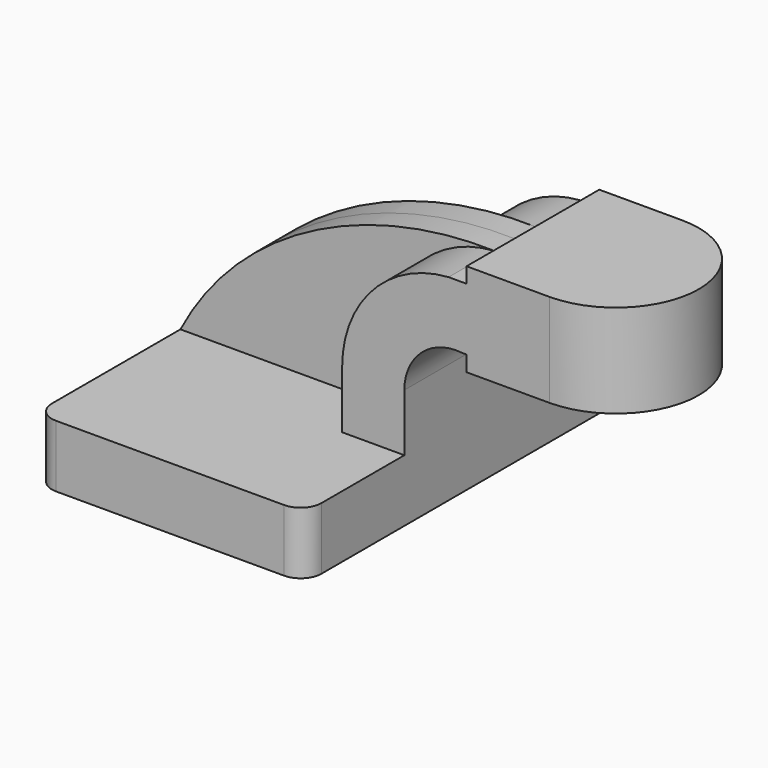
from build123d import *

# Parameters (mm, degrees)
F1_DEPTH = 63.5
F0_W     = 25.4
F0_H     = 4.7752
F0_H_2   = 4.7256098347
F0_H_3   = 19.0741901653
F2_DEPTH = 25.4
F3_DEPTH = 7.9375
F5_R     = 6.35


with BuildPart() as f1:
    # F0 (on Front) → F1 (new body, symmetric)
    with BuildSketch(Plane.XZ):
        Polygon((-41.275, 9.525), (-41.275, -9.525), (41.275, -9.525), (41.275, 9.525), (22.225, 9.525), align=None)
    extrude(amount=F1_DEPTH, both=True)

    # F0 (on Front) → F2 (join, symmetric)
    with BuildSketch(Plane.XZ):
        Polygon((-41.275, 9.525), (-41.275, -9.525), (41.275, -9.525), (41.275, 9.525), (22.225, 9.525), align=None)
        with Locations((73.025, 40.4876)):
            Rectangle(F0_W, F0_H)
        with Locations((73.025, 64.3121950827)):
            Rectangle(F0_W, F0_H_2)
        with BuildLine():
            Line((22.225, 9.525), (41.275, 9.525))
            Line((41.275, 9.525), (41.275, 27.1020599752))
            ThreePointArc((41.275, 27.1020599752), (46.5785126871, 38.9451710949), (58.9454605977, 42.8752))
            Line((58.9454605977, 42.8752), (60.325, 42.8752))
            Line((60.325, 42.8752), (60.325, 61.9493901653))
            Line((60.325, 61.9493901653), (54.8220816984, 61.9493901653))
            ThreePointArc((54.8220816984, 61.9493901653), (31.6445283156, 50.9605288942), (22.225, 27.1020599752))
            Line((22.225, 27.1020599752), (22.225, 9.525))
        make_face()
        with Locations((73.025, 52.4122950827)):
            Rectangle(F0_W, F0_H_3)
    extrude(amount=F2_DEPTH, both=True)

    # F0 (on Front) → F3 (join, symmetric)
    with BuildSketch(Plane.XZ):
        with BuildLine():
            add(Edge.make_bspline(
                [(-41.275, 9.525), (-22.719591856, 45.2046655118), (17.2888338566, 62.9861876369), (54.8220816984, 61.9493901653)],
                knots=[0, 0, 0, 0, 109.4667337375, 109.4667337375, 109.4667337375, 109.4667337375], degree=3))
            Line((-41.275, 9.525), (22.225, 9.525))
            Line((22.225, 9.525), (22.225, 27.1020599752))
            ThreePointArc((22.225, 27.1020599752), (31.6445283156, 50.9605288942), (54.8220816984, 61.9493901653))
        make_face()
    extrude(amount=F3_DEPTH, both=True)

    # F0 (on Front) → F4 (revolve)
    with BuildSketch(Plane.XZ):
        Polygon((85.725, 66.675), (85.725, 61.9493901653), (85.725, 42.8752), (85.725, 38.1), (111.125, 38.1), (111.125, 66.675), align=None)
    revolve(axis=Axis((85.725, 0, 52.3875), (0, 0, -1)))

    # F5
    f5_edges = [f1.edges().sort_by_distance(p)[0] for p in [
        (41.275, -63.5, 0),
        (-41.275, -63.5, 0),
        (-41.275, 63.5, 0),
        (41.275, 63.5, 0),
    ]]
    fillet(f5_edges, radius=F5_R)


solid = f1.part
